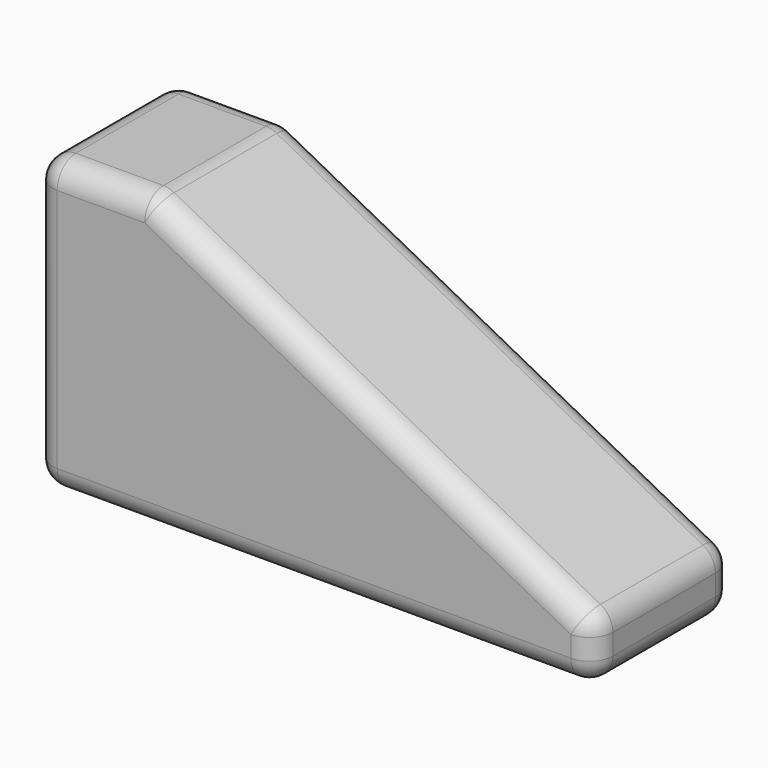
from build123d import *

# Parameters (mm, degrees)
F1_DEPTH = 38.1
F2_R     = 5.08


with BuildPart() as f1:
    # F0 (on Front) → F1 (new body)
    with BuildSketch(Plane.XZ):
        Polygon((-33.317723, 39.271447), (-58.717723, 39.271447), (-58.717723, -24.228553), (63.407528, -24.228553), (63.407528, -11.528553), align=None)
    extrude(amount=F1_DEPTH)

    # F2
    f2_edges = [f1.edges().sort_by_distance(p)[0] for p in [
        (-33.317723, -19.05, 39.271447),
        (-58.717723, -19.05, 39.271447),
        (-46.017723, 0, 39.271447),
        (-46.017723, -38.1, 39.271447),
        (63.407528, -19.05, -11.528553),
        (15.044903, 0, 13.871447),
        (15.044903, -38.1, 13.871447),
        (63.407528, -38.1, -17.878553),
        (-58.717723, -38.1, 7.521447),
        (2.344903, -38.1, -24.228553),
        (63.407528, -19.05, -24.228553),
        (63.407528, 0, -17.878553),
        (-58.717723, 0, 7.521447),
        (2.344903, 0, -24.228553),
        (-58.717723, -19.05, -24.228553),
    ]]
    fillet(f2_edges, radius=F2_R)


solid = f1.part
